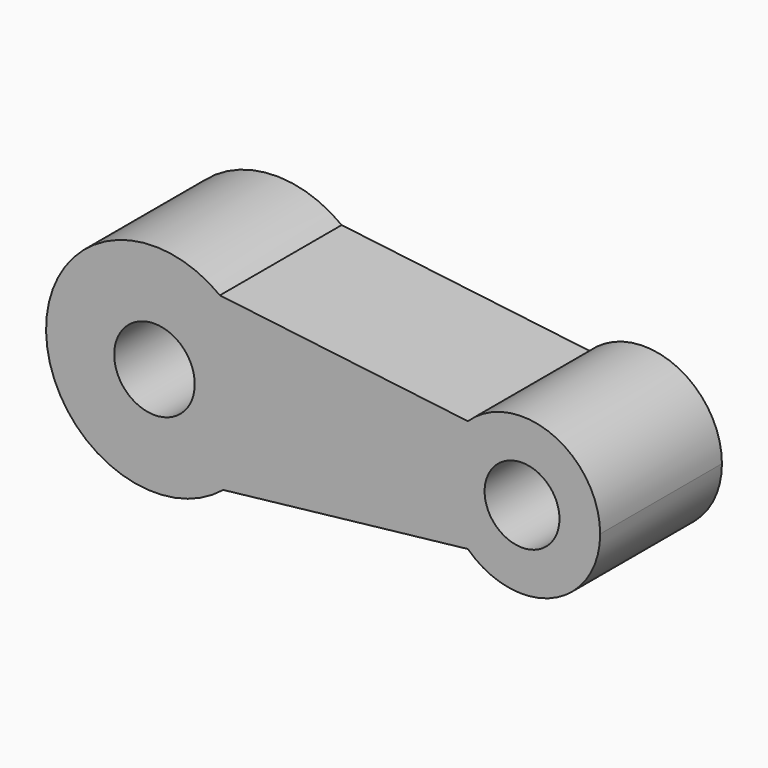
from build123d import *

# Parameters (mm, degrees)
F0_R     = 13.442453
F0_R_2   = 12.494075
F1_DEPTH = 50.8


with BuildPart() as f1:
    # F0 (on Front) → F1 (new body)
    with BuildSketch(Plane.XZ):
        with BuildLine():
            ThreePointArc((-45.704158, 28.843034), (-35.148601, 16.105036), (-31.366511, 0))
            ThreePointArc((-31.366511, 0), (-34.842898, -15.474821), (-44.604005, -27.975867))
            Line((-44.604005, -27.975867), (37.049706, -18.774123))
            ThreePointArc((37.049706, -18.774123), (29.068127, 0), (37.049706, 18.774123))
            Line((37.049706, 18.774123), (-45.704158, 28.843034))
        make_face()
        with BuildLine():
            ThreePointArc((-44.604005, -27.975867), (-34.842898, -15.474821), (-31.366511, 0))
            ThreePointArc((-31.366511, 0), (-35.148601, 16.105036), (-45.704158, 28.843034))
            ThreePointArc((-45.704158, 28.843034), (-103.720889, -0.700413), (-44.604005, -27.975867))
        make_face()
        with Locations((-67.54709, 0)):
            Circle(F0_R, mode=Mode.SUBTRACT)
        with BuildLine():
            ThreePointArc((-45.704158, 28.843034), (-35.148601, 16.105036), (-31.366511, 0))
            ThreePointArc((-31.366511, 0), (-34.842898, -15.474821), (-44.604005, -27.975867))
            Line((-44.604005, -27.975867), (37.049706, -18.774123))
            ThreePointArc((37.049706, -18.774123), (29.068127, 0), (37.049706, 18.774123))
            Line((37.049706, 18.774123), (-45.704158, 28.843034))
        make_face()
        with BuildLine():
            ThreePointArc((81.209853, 0), (65.339153, 23.992636), (37.049706, 18.774123))
            ThreePointArc((37.049706, 18.774123), (29.068127, 0), (37.049706, -18.774123))
            ThreePointArc((37.049706, -18.774123), (65.339153, -23.992636), (81.209853, 0))
        make_face()
        with Locations((55.13899, 0)):
            Circle(F0_R_2, mode=Mode.SUBTRACT)
        with BuildLine():
            ThreePointArc((81.209853, 0), (65.339153, 23.992636), (37.049706, 18.774123))
            ThreePointArc((37.049706, 18.774123), (29.068127, 0), (37.049706, -18.774123))
            ThreePointArc((37.049706, -18.774123), (65.339153, -23.992636), (81.209853, 0))
        make_face()
        with Locations((55.13899, 0)):
            Circle(F0_R_2, mode=Mode.SUBTRACT)
        with BuildLine():
            ThreePointArc((-44.604005, -27.975867), (-34.842898, -15.474821), (-31.366511, 0))
            ThreePointArc((-31.366511, 0), (-35.148601, 16.105036), (-45.704158, 28.843034))
            ThreePointArc((-45.704158, 28.843034), (-103.720889, -0.700413), (-44.604005, -27.975867))
        make_face()
        with Locations((-67.54709, 0)):
            Circle(F0_R, mode=Mode.SUBTRACT)
    extrude(amount=F1_DEPTH)


solid = f1.part
